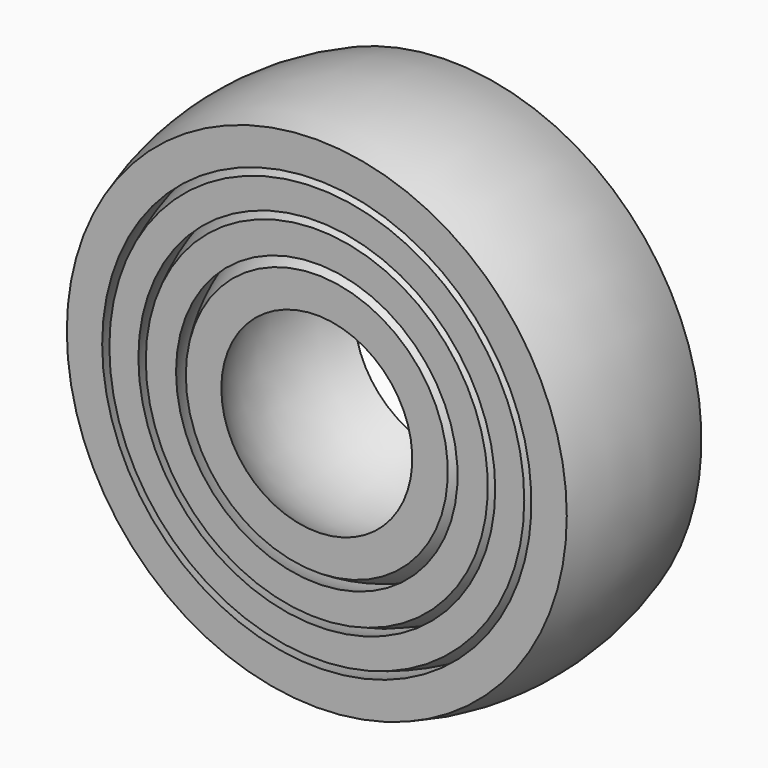
from build123d import *


with BuildPart() as f1:
    # F0 (on Top) → F1 (revolve)
    with BuildSketch(Plane.XY):
        with BuildLine():
            ThreePointArc((-25.865497, -10), (-27.841626, -0.024422), (-26.13043, 10))
            Line((-26.13043, 10), (-30.355592, 10))
            ThreePointArc((-30.355592, 10), (-31.842005, -0.018245), (-30.12759, -10))
            Line((-30.12759, -10), (-25.865497, -10))
        make_face()
        with BuildLine():
            ThreePointArc((-21.503859, -10), (-23.841058, -0.03458), (-21.821329, 10))
            Line((-21.821329, 10), (-25.276676, 10))
            ThreePointArc((-25.276676, 10), (-27.041532, -0.026046), (-25.002769, -10))
            Line((-25.002769, -10), (-21.503859, -10))
        make_face()
        with BuildLine():
            ThreePointArc((-16.966973, -10), (-19.840086, -0.053419), (-17.366627, 10))
            Line((-17.366627, 10), (-20.944939, 10))
            ThreePointArc((-20.944939, 10), (-23.040907, -0.037407), (-20.614106, -10))
            Line((-20.614106, -10), (-16.966973, -10))
        make_face()
        with BuildLine():
            ThreePointArc((-11.505916, -10), (-15.244215, 0), (-11.505916, 10))
            Line((-11.505916, 10), (-16.216401, 10))
            ThreePointArc((-16.216401, 10), (-18.839719, -0.060777), (-15.788021, -10))
            Line((-15.788021, -10), (-11.505916, -10))
        make_face()
    revolve(axis=Axis((0, -0.292288, 0), (0, -1, 0)))


solid = f1.part
